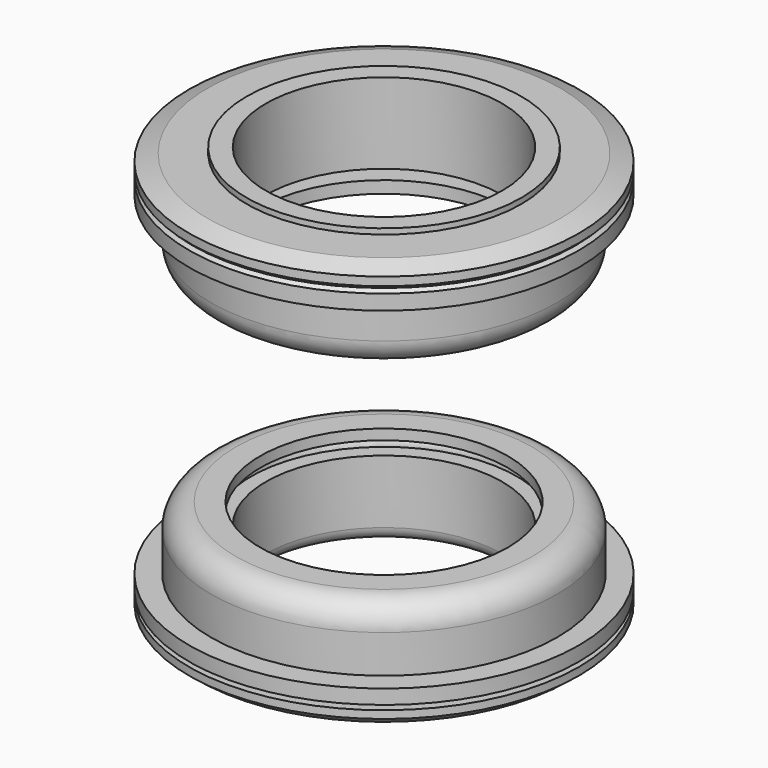
from build123d import *


with BuildPart() as f1:
    # F0 (on Front) → F1 (revolve)
    with BuildSketch(Plane.XZ):
        with BuildLine():
            Line((17.4375, 20.276968), (15, 20.276968))
            Line((15, 20.276968), (15, 10.051968))
            Line((15, 10.051968), (17.175, 10.051968))
            ThreePointArc((17.175, 10.051968), (17.692839, 8.882669), (18.878239, 8.402827))
            Line((18.878239, 8.402827), (15.728733, 8.402827))
            Line((15.728733, 8.402827), (15.728733, 6.876968))
            Line((15.728733, 6.876968), (18.825, 6.876968))
            ThreePointArc((18.825, 6.876968), (21.070064, 7.806904), (22, 10.051968))
            Line((22, 10.051968), (22, 14.876968))
            Line((22, 14.876968), (24.75, 14.876968))
            Line((24.75, 14.876968), (24.75, 16.786378))
            Line((24.75, 16.786378), (24.329273, 17.19016))
            Line((24.329273, 17.19016), (22.006681, 17.19016))
            Line((22.006681, 17.19016), (22.006681, 17.610036))
            Line((22.006681, 17.610036), (24.75, 17.610036))
            Line((24.75, 17.610036), (24.75, 18.686548))
            Line((24.75, 18.686548), (22.395371, 19.577239))
            Line((22.395371, 19.577239), (19.875, 19.577239))
            Line((19.875, 19.577239), (17.4375, 19.577239))
            Line((17.4375, 19.577239), (17.4375, 20.276968))
        make_face()
    revolve(axis=Axis((0, 0, -4.802956), (0, 0, -1)))


with BuildPart() as f2:
    # F0 (on Front) → F2 (revolve)
    with BuildSketch(Plane.XZ):
        with BuildLine():
            Line((24.75, -29.189408), (24.75, -27.359408))
            Line((24.75, -27.359408), (22, -27.359408))
            Line((22, -27.359408), (22, -22.534408))
            ThreePointArc((22, -22.534408), (21.070064, -20.289344), (18.825, -19.359408))
            Line((18.825, -19.359408), (15.728733, -19.359408))
            Line((15.728733, -19.359408), (15.728733, -20.678741))
            Line((15.728733, -20.678741), (18.115707, -20.678741))
            ThreePointArc((18.115707, -20.678741), (17.205321, -21.069268), (16.860887, -21.998074))
            Line((16.860887, -21.998074), (15, -21.998074))
            Line((15, -21.998074), (15, -30.045066))
            ThreePointArc((15, -30.045066), (15.472533, -31.176955), (16.55198, -31.759408))
            Line((16.55198, -31.759408), (16.58098, -31.759408))
            Line((16.58098, -31.759408), (23.456531, -31.759408))
            Line((23.456531, -31.759408), (24.75, -30.758616))
            Line((24.75, -30.758616), (24.75, -29.77786))
            Line((24.75, -29.77786), (20.318115, -29.77786))
            Line((20.318115, -29.77786), (20.318115, -29.189408))
            Line((20.318115, -29.189408), (24.75, -29.189408))
        make_face()
    revolve(axis=Axis((0, 0, -4.802956), (0, 0, -1)))


solid = Compound([f1.part, f2.part])
